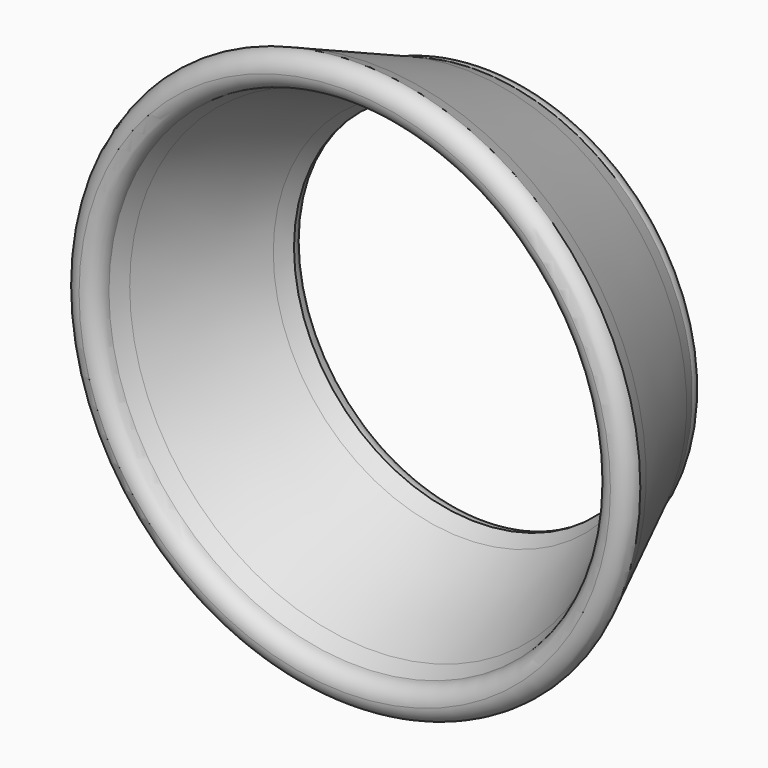
from build123d import *


with BuildPart() as f1:
    # F0 (on Top) → F1 (revolve)
    with BuildSketch(Plane.XY):
        with BuildLine():
            ThreePointArc((-27.5, -2.5), (-28.232233047, -0.732233047), (-30, 0))
            ThreePointArc((-30, 0), (-31.767766953, -0.732233047), (-32.5, -2.5))
            Line((-32.5, -2.5), (-33.6200716846, -5))
            Line((-33.6200716846, -5), (-28.6200716846, -5))
            Line((-28.6200716846, -5), (-27.5, -2.5))
        make_face()
        Polygon((-36.3799283154, -22.32), (-28.6200716846, -5), (-33.6200716846, -5), (-41.3799283154, -22.32), align=None)
        with BuildLine():
            Line((-37.5, -24.82), (-36.3799283154, -22.32))
            Line((-36.3799283154, -22.32), (-41.3799283154, -22.32))
            Line((-41.3799283154, -22.32), (-42.5, -24.82))
            ThreePointArc((-42.5, -24.82), (-41.767766953, -26.587766953), (-40, -27.32))
            ThreePointArc((-40, -27.32), (-38.232233047, -26.587766953), (-37.5, -24.82))
        make_face()
    revolve(axis=Axis((0, -13.66, 0), (0, -1, 0)))


solid = f1.part
